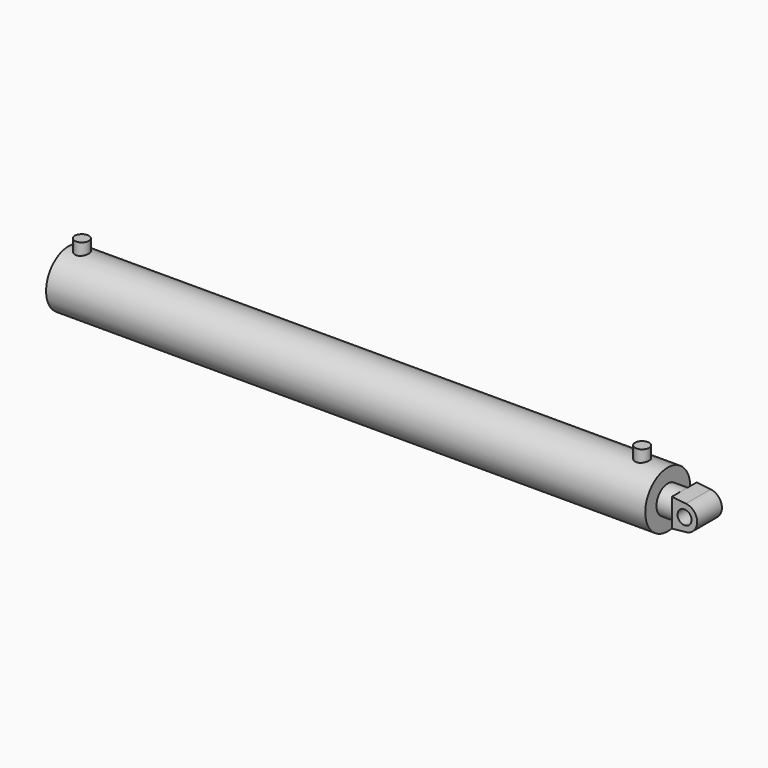
from build123d import *

# Parameters (mm, degrees)
F0_W     = 15.875
F0_H     = 6.35
F0_H_2   = 25.4
F0_R     = 15.875
F5_DEPTH = 34.925


with BuildPart() as f1:
    # F0 (on Front) → F1 (revolve)
    with BuildSketch(Plane.XZ):
        Polygon((0, 63.5), (0, 0), (12.7, 0), (12.7, 57.15), (14.097, 57.15), (14.097, 63.5), align=None)
        with Locations((22.0345, 60.325)):
            Rectangle(F0_W, F0_H)
        Polygon((1279.525, 63.5), (29.972, 63.5), (29.972, 57.15), (76.2, 57.15), (1279.525, 57.15), align=None)
        with Locations((1287.4625, 60.325)):
            Rectangle(F0_W, F0_H)
        Polygon((1295.4, 31.75), (1353.312, 31.75), (1353.312, 63.5), (1295.4, 63.5), (1295.4, 57.15), align=None)
    revolve(axis=Axis((6.35, 0, 0), (1, 0, 0)))

    # F0 (on Front) → F2 (revolve)
    with BuildSketch(Plane.XZ):
        with Locations((22.0345, 76.2)):
            Rectangle(F0_W, F0_H_2)
        with Locations((22.0345, 60.325)):
            Rectangle(F0_W, F0_H)
    revolve(axis=Axis((29.972, 0, 73.025), (0, 0, 1)))

    # F0 (on Front) → F3 (revolve)
    with BuildSketch(Plane.XZ):
        with Locations((1287.4625, 76.2)):
            Rectangle(F0_W, F0_H_2)
        with Locations((1287.4625, 60.325)):
            Rectangle(F0_W, F0_H)
    revolve(axis=Axis((1295.4, 0, 73.025), (0, 0, 1)))


with BuildPart() as f4:
    # F0 (on Front) → F4 (revolve)
    with BuildSketch(Plane.XZ):
        Polygon((12.7, 57.15), (12.7, 0), (1390.65, 0), (1390.65, 31.75), (1353.312, 31.75), (1295.4, 31.75), (76.2, 31.75), (76.2, 57.15), (29.972, 57.15), (14.097, 57.15), align=None)
    revolve(axis=Axis((701.675, 0, 0), (-1, 0, 0)))

    # F0 (on Front) → F5 (join, symmetric)
    with BuildSketch(Plane.XZ):
        with BuildLine():
            Line((1390.65, 31.75), (1390.65, 0))
            ThreePointArc((1390.65, 0), (1400.1093327939, 21.239630229), (1422.2245856354, 28.4171270718))
            Line((1422.2245856354, 28.4171270718), (1390.65, 31.75))
        make_face()
        with BuildLine():
            ThreePointArc((1422.2245856354, 28.4171270718), (1400.1093327939, 21.239630229), (1390.65, 0))
            ThreePointArc((1390.65, 0), (1400.1093327939, -21.239630229), (1422.2245856354, -28.4171270718))
            ThreePointArc((1422.2245856354, -28.4171270718), (1440.464630229, -19.1156672061), (1447.8, 0))
            ThreePointArc((1447.8, 0), (1440.464630229, 19.1156672061), (1422.2245856354, 28.4171270718))
        make_face()
        with Locations((1419.225, 0)):
            Circle(F0_R, mode=Mode.SUBTRACT)
        with BuildLine():
            ThreePointArc((1422.2245856354, -28.4171270718), (1400.1093327939, -21.239630229), (1390.65, 0))
            Line((1390.65, 0), (1390.65, -31.75))
            Line((1390.65, -31.75), (1422.2245856354, -28.4171270718))
        make_face()
    extrude(amount=F5_DEPTH, both=True)


solid = Compound([f1.part, f4.part])
